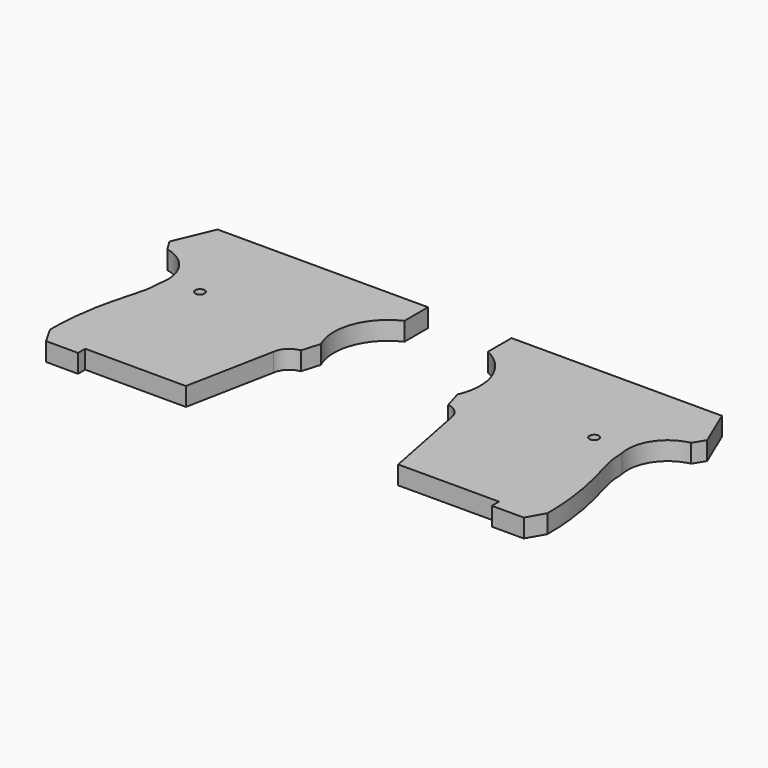
from build123d import *

# Parameters (mm, degrees)
F0_R     = 1.2065
F1_DEPTH = 4.7625
F0_R_2   = 2.3749


with BuildPart() as f1:
    # F0 (on Top) → F1 (new body)
    with BuildSketch(Plane.XY):
        with BuildLine():
            Line((61.7157477318, 7.2195736584), (64.2557477318, 11.6645736584))
            add(Edge.make_bspline(
                [(59.5567477318, 41.6861787729), (59.7618006657, 40.8082737426), (59.2648146524, 36.3222815396), (64.2557477318, 25.3302050373), (64.2557477318, 11.6645736584)],
                knots=[0, 0, 0, 0, 0.2764123435, 1, 1, 1, 1], degree=3))
            ThreePointArc((59.5567477318, 41.6861787729), (61.1338107492, 49.4221074309), (67.6847477318, 53.8285736584))
            Line((67.6847477318, 53.8285736584), (69.4627477318, 56.7495736584))
            Line((69.4627477318, 56.7495736584), (65.1447477318, 66.9095736584))
            Line((65.1447477318, 66.9095736584), (10.7887477318, 66.9095736584))
            Line((10.7887477318, 66.9095736584), (10.7887477318, 59.2895736584))
            ThreePointArc((10.7887477318, 59.2895736584), (18.0135824265, 51.4821625424), (17.6467477318, 40.8511072323))
            Line((17.6467477318, 40.8511072323), (19.0437477318, 36.1521072323))
            ThreePointArc((19.0437477318, 36.1521072323), (21.6806517311, 34.8520112316), (22.9807477318, 32.2151072323))
            Line((22.9807477318, 32.2151072323), (27.4257477318, 9.5055736584))
            Line((27.4257477318, 9.5055736584), (53.4607477318, 9.5336807392))
            Line((53.4607477318, 9.5336807392), (53.4607477318, 7.2106616572))
            Line((53.4607477318, 7.2106616572), (61.7157477318, 7.2195736584))
        make_face()
        with Locations((50.9207477318, 43.4145736584)):
            Circle(F0_R, mode=Mode.SUBTRACT)
    extrude(amount=F1_DEPTH)


with BuildPart() as f1b:
    # F0 (on Top) → F1, piece 2 (new body)
    with BuildSketch(Plane.XY):
        with BuildLine():
            Line((-10.7887477318, 66.9095736584), (-65.1447477318, 66.9095736584))
            Line((-65.1447477318, 66.9095736584), (-69.4627477318, 56.7495736584))
            Line((-69.4627477318, 56.7495736584), (-67.6847477318, 53.8285736584))
            ThreePointArc((-67.6847477318, 53.8285736584), (-61.1338107492, 49.4221074309), (-59.5567477318, 41.6861787729))
            add(Edge.make_bspline(
                [(-59.5567477318, 41.6861787729), (-59.7618006657, 40.8082737426), (-59.2648146524, 36.3222815396), (-64.2557477318, 25.3302050373), (-64.2557477318, 11.6645736584)],
                knots=[0, 0, 0, 0, 0.2764123435, 1, 1, 1, 1], degree=3))
            Line((-64.2557477318, 11.6645736584), (-61.7157477318, 7.2195736584))
            Line((-61.7157477318, 7.2195736584), (-53.4607477318, 7.2106616572))
            Line((-53.4607477318, 7.2106616572), (-53.4607477318, 9.5336807392))
            Line((-53.4607477318, 9.5336807392), (-27.4257477318, 9.5055736584))
            Line((-27.4257477318, 9.5055736584), (-22.9807477318, 32.2151072323))
            ThreePointArc((-22.9807477318, 32.2151072323), (-21.6806517311, 34.8520112316), (-19.0437477318, 36.1521072323))
            Line((-19.0437477318, 36.1521072323), (-17.6467477318, 40.8511072323))
            ThreePointArc((-17.6467477318, 40.8511072323), (-18.0135824265, 51.4821625424), (-10.7887477318, 59.2895736584))
            Line((-10.7887477318, 59.2895736584), (-10.7887477318, 66.9095736584))
        make_face()
        with Locations((-50.9207477318, 43.4145736584)):
            Circle(F0_R, mode=Mode.SUBTRACT)
        with Locations((-28.5687477318, 43.4145736584)):
            Circle(F0_R_2, mode=Mode.SUBTRACT)
        with Locations((-28.5687477318, 43.4145736584)):
            Circle(F0_R_2)
    extrude(amount=F1_DEPTH)


solid = Compound([f1.part, f1b.part])
